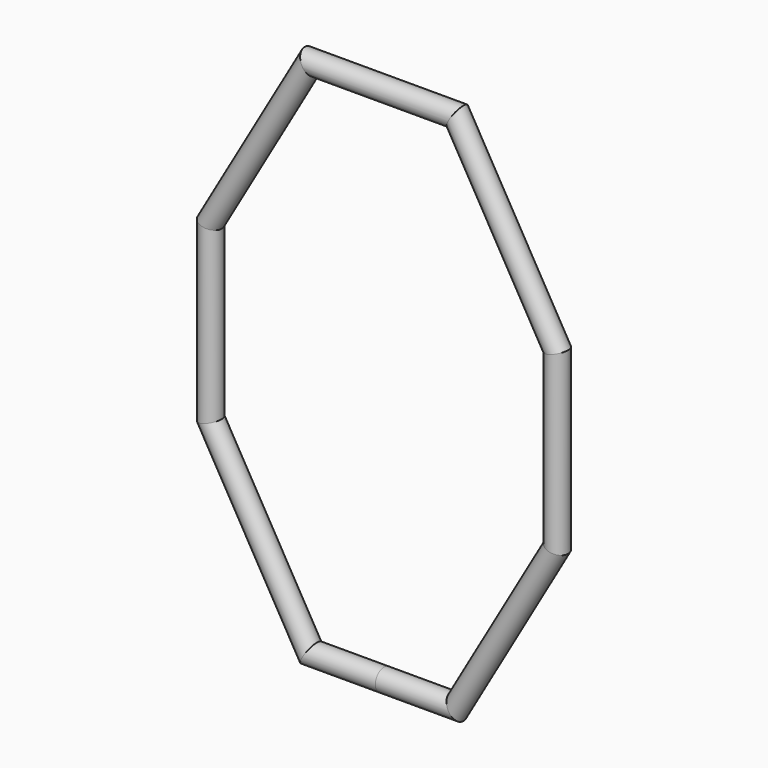
from build123d import *

# Parameters (mm, degrees)
F1_R   = 15.875
F1_R_2 = 14.224


with BuildPart() as f2:
    # F2: sweep along a path in F0
    with BuildLine(Plane.XZ) as f2_path:
        Line((0, 98.1069729979), (-107.3531, 98.1069729979))
        Line((-107.3531, 98.1069729979), (-254, -155.8929085746))
        Line((-254, -155.8929085746), (-254, -409.8929085746))
        Line((-254, -409.8929085746), (-107.3531, -663.892790147))
        Line((-107.3531, -663.892790147), (0, -663.892790147))
    # F1 (on Right) → F2 (sweep)
    with BuildSketch(Plane.YZ):
        with Locations((0, 97.4496528506)):
            Circle(F1_R)
        with Locations((0, 97.4496528506)):
            Circle(F1_R_2, mode=Mode.SUBTRACT)
        with Locations((0, 97.4496528506)):
            Circle(F1_R)
        with Locations((0, 97.4496528506)):
            Circle(F1_R_2, mode=Mode.SUBTRACT)
    sweep(path=f2_path.line, transition=Transition.RIGHT)

    # F3: F2 across plane


with BuildPart() as f2_1:
    add(f2.part)
    add(f2.part.mirror(Plane.YZ))


solid = f2_1.part
